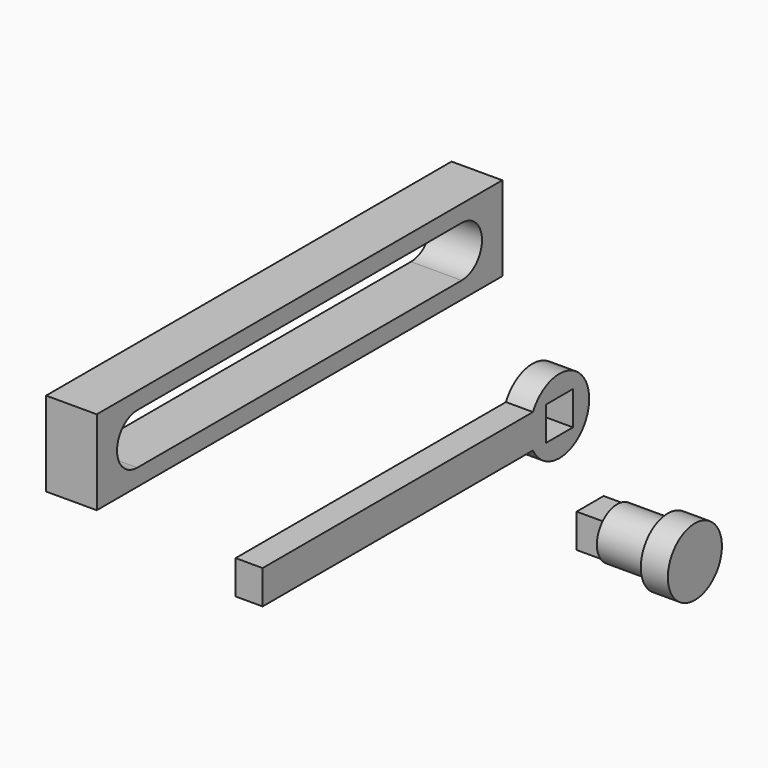
from build123d import *

# Parameters (mm, degrees)
F0_W     = 150
F0_H     = 25
F1_DEPTH = 15
F3_W     = 10
F3_H     = 10
F4_DEPTH = 8
F6_R     = 10
F6_R_2   = 7.5
F6_W     = 10
F6_H     = 10
F7_DEPTH = 8
F8_DEPTH = 15
F9_DEPTH = 23


with BuildPart() as f1:
    # F0 (on Right) → F1 (new body)
    with BuildSketch(Plane.YZ):
        Rectangle(F0_W, F0_H)
        with BuildLine():
            Line((-60, 7.5), (60, 7.5))
            ThreePointArc((60, 7.5), (67.5, 0), (60, -7.5))
            Line((60, -7.5), (-60, -7.5))
            ThreePointArc((-60, -7.5), (-67.5, 0), (-60, 7.5))
        make_face(mode=Mode.SUBTRACT)
    extrude(amount=F1_DEPTH)


with BuildPart() as f4:
    # F3 (on offset) → F4 (new body)
    with BuildSketch(Plane.YZ.offset(40)):
        with BuildLine():
            ThreePointArc((45.1010205144, -35), (43.8989794856, -30), (45.1010205144, -25))
            Line((45.1010205144, -25), (-54.8989794856, -25))
            Line((-54.8989794856, -25), (-54.8989794856, -35))
            Line((-54.8989794856, -35), (45.1010205144, -35))
        make_face()
        with BuildLine():
            ThreePointArc((65.8989794856, -30), (57.470209864, -19.304731217), (45.1010205144, -25))
            ThreePointArc((45.1010205144, -25), (43.8989794856, -30), (45.1010205144, -35))
            ThreePointArc((45.1010205144, -35), (57.470209864, -40.695268783), (65.8989794856, -30))
        make_face()
        with Locations((54.8989794856, -30)):
            Rectangle(F3_W, F3_H, mode=Mode.SUBTRACT)
    extrude(amount=F4_DEPTH)


with BuildPart() as f7:
    # F6 (on offset) → F7 (new body)
    with BuildSketch(Plane.YZ.offset(80)):
        with Locations((55, -55)):
            Circle(F6_R)
        with Locations((55, -55)):
            Circle(F6_R_2, mode=Mode.SUBTRACT)
        with Locations((55, -55)):
            Circle(F6_R_2)
        with Locations((55, -55)):
            Rectangle(F6_W, F6_H, mode=Mode.SUBTRACT)
        with Locations((55, -55)):
            Rectangle(F6_W, F6_H)
    extrude(amount=F7_DEPTH)

    # F6 (on offset) → F8 (join)
    with BuildSketch(Plane.YZ.offset(80)):
        with Locations((55, -55)):
            Circle(F6_R_2)
        with Locations((55, -55)):
            Rectangle(F6_W, F6_H, mode=Mode.SUBTRACT)
        with Locations((55, -55)):
            Rectangle(F6_W, F6_H)
    extrude(amount=-F8_DEPTH)

    # F6 (on offset) → F9 (join)
    with BuildSketch(Plane.YZ.offset(80)):
        with Locations((55, -55)):
            Rectangle(F6_W, F6_H)
    extrude(amount=-F9_DEPTH)


solid = Compound([f1.part, f4.part, f7.part])
